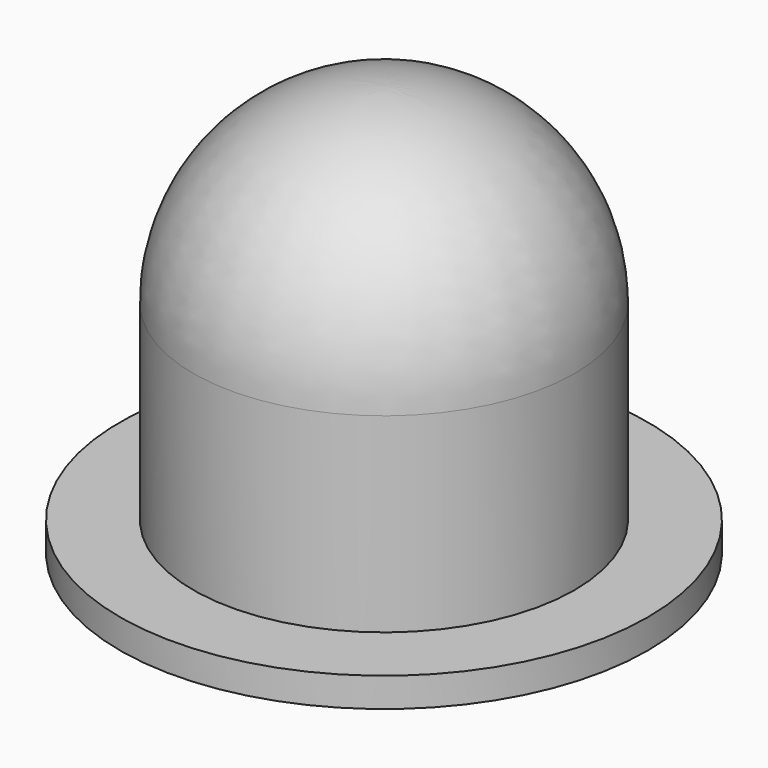
from build123d import *


with BuildPart() as f1:
    # F0 (on Front) → F1 (revolve)
    with BuildSketch(Plane.XZ):
        Polygon((0, 5), (0, 0), (45, 0), (45, 5), (32.5, 5), align=None)
    revolve(axis=Axis((0, 0, -15.122283), (0, 0, -1)))


with BuildPart() as f2:
    # F0 (on Front) → F2 (revolve)
    with BuildSketch(Plane.XZ):
        with BuildLine():
            Line((0, 70), (0, 5))
            Line((0, 5), (32.5, 5))
            Line((32.5, 5), (32.5, 37.5))
            ThreePointArc((32.5, 37.5), (22.98097, 60.48097), (0, 70))
        make_face()
    revolve(axis=Axis((0, 0, -15.122283), (0, 0, -1)))


solid = Compound([f1.part, f2.part])
